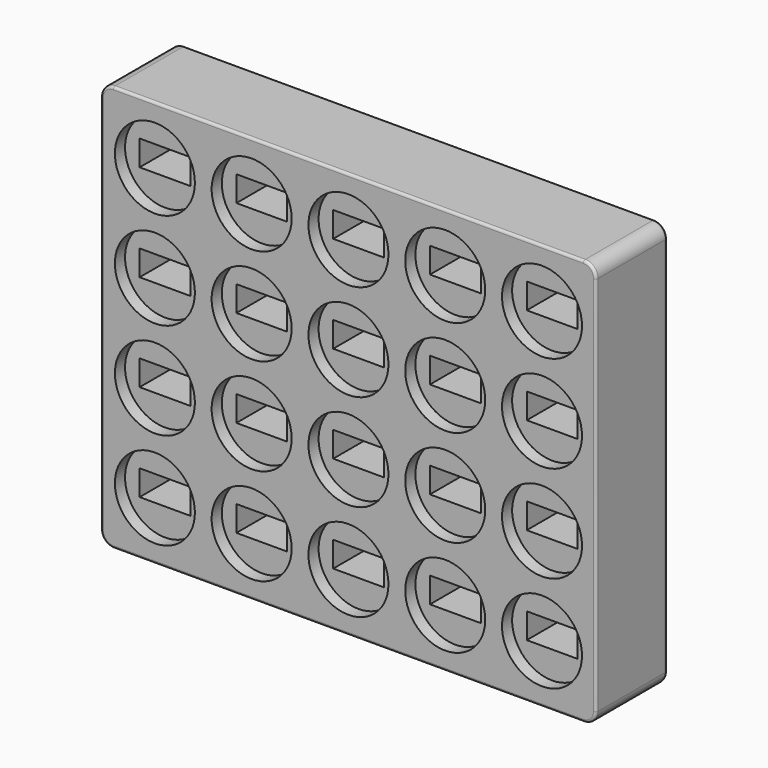
from build123d import *

# Parameters (mm, degrees)
SKETCH120_W     = 39
SKETCH120_H     = 32
PAD064_DEPTH    = 7
SKETCH122_W     = 4
SKETCH122_H     = 2
POCKET046_DEPTH = 7
SKETCH123_R     = 3.15
POCKET047_DEPTH = 1
FILLET014_R     = 1
FILLET015_R     = 0.2
CHAMFER063_SIZE = 0.2


with BuildPart() as part:
    # Sketch120 → Pad064 (new body)
    with BuildSketch(Plane.XZ):
        Rectangle(SKETCH120_W, SKETCH120_H)
    extrude(amount=PAD064_DEPTH)

    # Sketch122 (on Face6 of Pad064) → Pocket046 (cut)
    with BuildSketch(Plane.XZ.offset(7)):
        with Locations((-15.24, 11.43)):
            Rectangle(SKETCH122_W, SKETCH122_H)
        with Locations((-7.62, 11.43)):
            Rectangle(SKETCH122_W, SKETCH122_H)
        with Locations((0, 11.43)):
            Rectangle(SKETCH122_W, SKETCH122_H)
        with Locations((7.62, 11.43)):
            Rectangle(SKETCH122_W, SKETCH122_H)
        with Locations((15.24, 11.43)):
            Rectangle(SKETCH122_W, SKETCH122_H)
        with Locations((-15.24, 3.81)):
            Rectangle(SKETCH122_W, SKETCH122_H)
        with Locations((-7.62, 3.81)):
            Rectangle(SKETCH122_W, SKETCH122_H)
        with Locations((0, 3.81)):
            Rectangle(SKETCH122_W, SKETCH122_H)
        with Locations((7.62, 3.81)):
            Rectangle(SKETCH122_W, SKETCH122_H)
        with Locations((15.24, 3.81)):
            Rectangle(SKETCH122_W, SKETCH122_H)
        with Locations((-15.24, -3.81)):
            Rectangle(SKETCH122_W, SKETCH122_H)
        with Locations((-7.62, -3.81)):
            Rectangle(SKETCH122_W, SKETCH122_H)
        with Locations((0, -3.81)):
            Rectangle(SKETCH122_W, SKETCH122_H)
        with Locations((7.62, -3.81)):
            Rectangle(SKETCH122_W, SKETCH122_H)
        with Locations((15.24, -3.81)):
            Rectangle(SKETCH122_W, SKETCH122_H)
        with Locations((-15.24, -11.43)):
            Rectangle(SKETCH122_W, SKETCH122_H)
        with Locations((-7.62, -11.43)):
            Rectangle(SKETCH122_W, SKETCH122_H)
        with Locations((0, -11.43)):
            Rectangle(SKETCH122_W, SKETCH122_H)
        with Locations((7.62, -11.43)):
            Rectangle(SKETCH122_W, SKETCH122_H)
        with Locations((15.24, -11.43)):
            Rectangle(SKETCH122_W, SKETCH122_H)
    extrude(amount=-POCKET046_DEPTH, mode=Mode.SUBTRACT)

    # Sketch123 (on Face5 of Pocket046) → Pocket047 (cut)
    with BuildSketch(Plane.XZ.offset(7)):
        with Locations((-15.24, 11.43)):
            Circle(SKETCH123_R)
        with Locations((-7.62, 11.43)):
            Circle(SKETCH123_R)
        with Locations((0, 11.43)):
            Circle(SKETCH123_R)
        with Locations((7.62, 11.43)):
            Circle(SKETCH123_R)
        with Locations((15.24, 11.43)):
            Circle(SKETCH123_R)
        with Locations((-15.24, 3.81)):
            Circle(SKETCH123_R)
        with Locations((-7.62, 3.81)):
            Circle(SKETCH123_R)
        with Locations((0, 3.81)):
            Circle(SKETCH123_R)
        with Locations((7.62, 3.81)):
            Circle(SKETCH123_R)
        with Locations((15.24, 3.81)):
            Circle(SKETCH123_R)
        with Locations((-15.24, -3.81)):
            Circle(SKETCH123_R)
        with Locations((-7.62, -3.81)):
            Circle(SKETCH123_R)
        with Locations((0, -3.81)):
            Circle(SKETCH123_R)
        with Locations((7.62, -3.81)):
            Circle(SKETCH123_R)
        with Locations((15.24, -3.81)):
            Circle(SKETCH123_R)
        with Locations((-15.24, -11.43)):
            Circle(SKETCH123_R)
        with Locations((-7.62, -11.43)):
            Circle(SKETCH123_R)
        with Locations((0, -11.43)):
            Circle(SKETCH123_R)
        with Locations((7.62, -11.43)):
            Circle(SKETCH123_R)
        with Locations((15.24, -11.43)):
            Circle(SKETCH123_R)
    extrude(amount=-POCKET047_DEPTH, mode=Mode.SUBTRACT)

    # Fillet014
    fillet014_edges = [part.edges().sort_by_distance(p)[0] for p in [
        (19.5, -3.5, 16),
        (19.5, -3.5, -16),
        (-19.5, -3.5, 16),
        (-19.5, -3.5, -16),
    ]]
    fillet(fillet014_edges, radius=FILLET014_R)

    # Fillet015
    fillet015_edges = [part.edges().sort_by_distance(p)[0] for p in [
        (0, 0, 16),
        (19.207107, 0, 15.707107),
        (19.5, 0, 0),
        (-19.207107, 0, 15.707107),
        (-19.5, 0, 0),
        (0, 0, -16),
        (19.207107, 0, -15.707107),
        (-19.207107, 0, -15.707107),
        (0, -7, 16),
        (-19.207107, -7, 15.707107),
        (-19.5, -7, 0),
        (19.207107, -7, 15.707107),
        (19.5, -7, 0),
        (19.207107, -7, -15.707107),
        (0, -7, -16),
        (-19.207107, -7, -15.707107),
    ]]
    fillet(fillet015_edges, radius=FILLET015_R)

    # Chamfer063
    chamfer063_edges = [part.edges().sort_by_distance(p)[0] for p in [
        (-15.24, 0, 12.43),
        (-17.24, 0, 11.43),
        (-15.24, 0, 10.43),
        (-13.24, 0, 11.43),
        (-9.62, 0, 11.43),
        (-7.62, 0, 10.43),
        (-5.62, 0, 11.43),
        (-7.62, 0, 12.43),
        (-2, 0, 11.43),
        (0, 0, 10.43),
        (2, 0, 11.43),
        (0, 0, 12.43),
        (7.62, 0, 10.43),
        (5.62, 0, 11.43),
        (7.62, 0, 12.43),
        (9.62, 0, 11.43),
        (15.24, 0, 10.43),
        (13.24, 0, 11.43),
        (15.24, 0, 12.43),
        (17.24, 0, 11.43),
        (15.24, 0, 4.81),
        (13.24, 0, 3.81),
        (15.24, 0, 2.81),
        (17.24, 0, 3.81),
        (5.62, 0, 3.81),
        (7.62, 0, 2.81),
        (9.62, 0, 3.81),
        (7.62, 0, 4.81),
        (-2, 0, 3.81),
        (0, 0, 2.81),
        (2, 0, 3.81),
        (0, 0, 4.81),
        (-9.62, 0, 3.81),
        (-7.62, 0, 2.81),
        (-5.62, 0, 3.81),
        (-7.62, 0, 4.81),
        (-15.24, 0, 2.81),
        (-13.24, 0, 3.81),
        (-15.24, 0, 4.81),
        (-17.24, 0, 3.81),
        (15.24, 0, -2.81),
        (15.24, 0, -4.81),
        (17.24, 0, -3.81),
        (13.24, 0, -3.81),
        (7.62, 0, -2.81),
        (9.62, 0, -3.81),
        (7.62, 0, -4.81),
        (5.62, 0, -3.81),
        (0, 0, -2.81),
        (2, 0, -3.81),
        (0, 0, -4.81),
        (-2, 0, -3.81),
        (-7.62, 0, -2.81),
        (-5.62, 0, -3.81),
        (-7.62, 0, -4.81),
        (-9.62, 0, -3.81),
        (-15.24, 0, -2.81),
        (-13.24, 0, -3.81),
        (-15.24, 0, -4.81),
        (-17.24, 0, -3.81),
        (15.24, 0, -10.43),
        (17.24, 0, -11.43),
        (15.24, 0, -12.43),
        (13.24, 0, -11.43),
        (7.62, 0, -10.43),
        (9.62, 0, -11.43),
        (7.62, 0, -12.43),
        (5.62, 0, -11.43),
        (0, 0, -10.43),
        (2, 0, -11.43),
        (0, 0, -12.43),
        (-2, 0, -11.43),
        (-7.62, 0, -10.43),
        (-5.62, 0, -11.43),
        (-7.62, 0, -12.43),
        (-9.62, 0, -11.43),
        (-15.24, 0, -10.43),
        (-13.24, 0, -11.43),
        (-15.24, 0, -12.43),
        (-17.24, 0, -11.43),
    ]]
    chamfer(chamfer063_edges, length=CHAMFER063_SIZE)


with BuildPart() as part_1:
    # Body023 placement: moved
    add(part.part.moved(Location((0, -35, 0))))


solid = part_1.part
